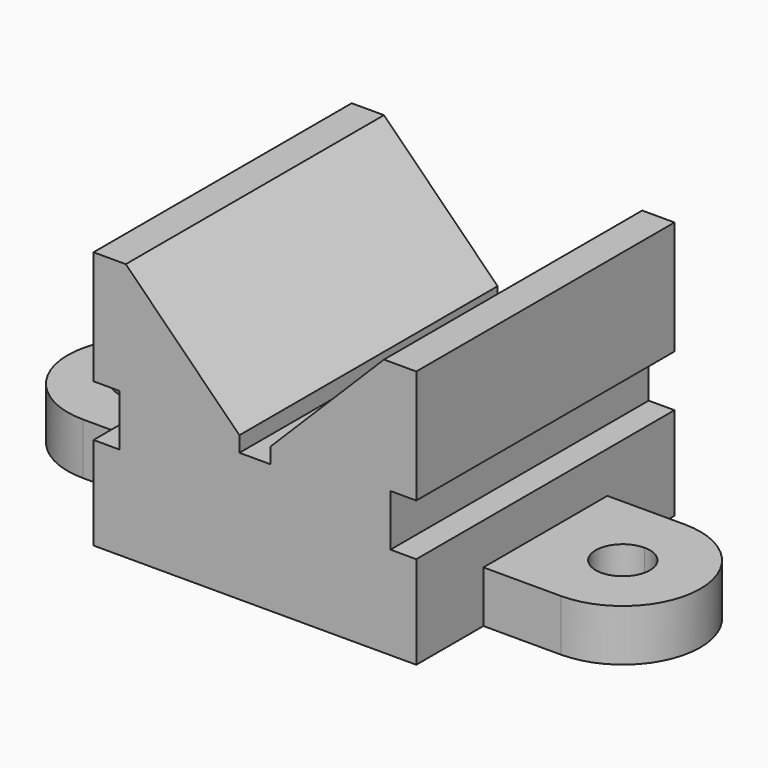
from build123d import *

# Parameters (mm, degrees)
F1_DEPTH = 1587.5
F3_DEPTH = 508


with BuildPart() as f1:
    # F0 (on Front) → F1 (new body, symmetric)
    with BuildSketch(Plane.XZ):
        Polygon((0, 914.4), (0, 0), (3175, 0), (3175, 914.4), (2921, 914.4), (2921, 1422.4), (3175, 1422.4), (3175, 2540), (2857.5, 2540), (1739.9, 1422.4), (1739.9, 1270), (1587.5, 1270), (1435.1, 1270), (1435.1, 1422.4), (317.5, 2540), (0, 2540), (0, 1422.4), (254, 1422.4), (254, 914.4), align=None)
    extrude(amount=F1_DEPTH, both=True)

    # F2 (on face) → F3 (join)
    with BuildSketch(Plane(origin=(0, 0, 0), x_dir=(1, 0, 0), z_dir=(0, 0, -1))):
        with BuildLine():
            Line((-762, 266.7), (-762, 762))
            ThreePointArc((-762, 762), (-1524, 0), (-762, -762))
            Line((-762, -762), (-762, -266.7))
            ThreePointArc((-762, -266.7), (-1028.7, 0), (-762, 266.7))
        make_face()
        with BuildLine():
            Line((0, -762), (0, 0))
            Line((0, 0), (0, 762))
            Line((0, 762), (-762, 762))
            Line((-762, 762), (-762, 266.7))
            ThreePointArc((-762, 266.7), (-573.414621, 188.585379), (-495.3, 0))
            ThreePointArc((-495.3, 0), (-573.414621, -188.585379), (-762, -266.7))
            Line((-762, -266.7), (-762, -762))
            Line((-762, -762), (0, -762))
        make_face()
        with BuildLine():
            Line((3937, 762), (3175, 762))
            Line((3175, 762), (3175, -762))
            Line((3175, -762), (3937, -762))
            Line((3937, -762), (3937, -266.7))
            ThreePointArc((3937, -266.7), (3670.3, 0), (3937, 266.7))
            Line((3937, 266.7), (3937, 762))
        make_face()
        with BuildLine():
            ThreePointArc((3937, -762), (4699, 0), (3937, 762))
            Line((3937, 762), (3937, 266.7))
            ThreePointArc((3937, 266.7), (4125.585379, 188.585379), (4203.7, 0))
            ThreePointArc((4203.7, 0), (4125.585379, -188.585379), (3937, -266.7))
            Line((3937, -266.7), (3937, -762))
        make_face()
    extrude(amount=-F3_DEPTH)


solid = f1.part
